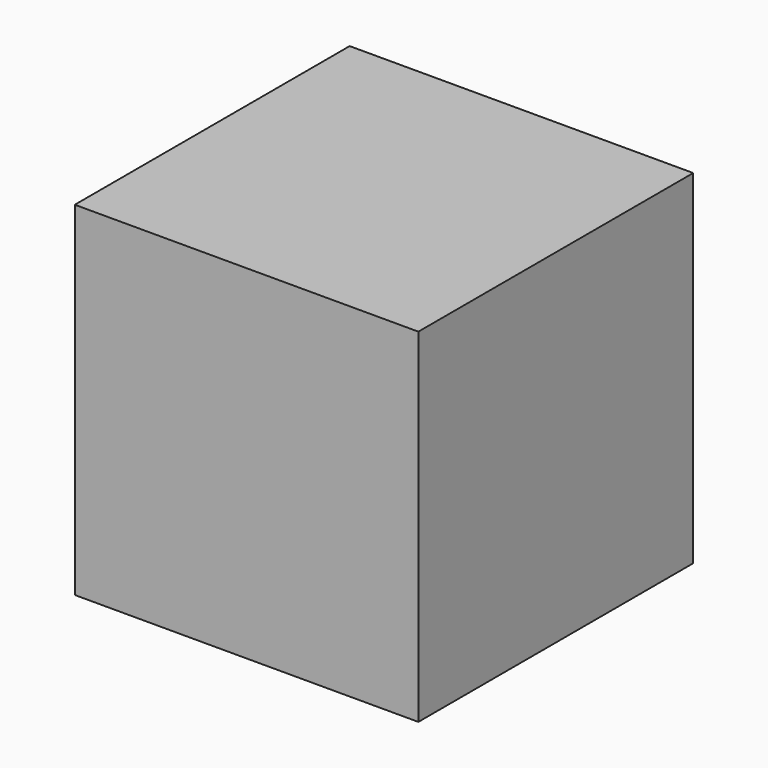
from build123d import *

# Parameters (mm, degrees)
F0_W     = 31
F0_H     = 31
F0_W_2   = 25
F0_H_2   = 25
F1_DEPTH = 15.5
F2_W     = 25
F2_H     = 25
F3_DEPTH = 3
F4_W     = 25
F4_H     = 25
F5_DEPTH = 3


with BuildPart() as f1:
    # F0 (on Front) → F1 (new body, symmetric)
    with BuildSketch(Plane.XZ):
        Rectangle(F0_W, F0_H)
        Rectangle(F0_W_2, F0_H_2, mode=Mode.SUBTRACT)
    extrude(amount=F1_DEPTH, both=True)

    # F2 (on face) → F3 (join)
    with BuildSketch(Plane.XZ.offset(15.5)):
        Rectangle(F2_W, F2_H)
    extrude(amount=-F3_DEPTH)

    # F4 (on face) → F5 (join)
    with BuildSketch(Plane(origin=(0, 15.5, 0), x_dir=(-1, 0, 0), z_dir=(0, 1, 0))):
        Rectangle(F4_W, F4_H)
    extrude(amount=-F5_DEPTH)


solid = f1.part
